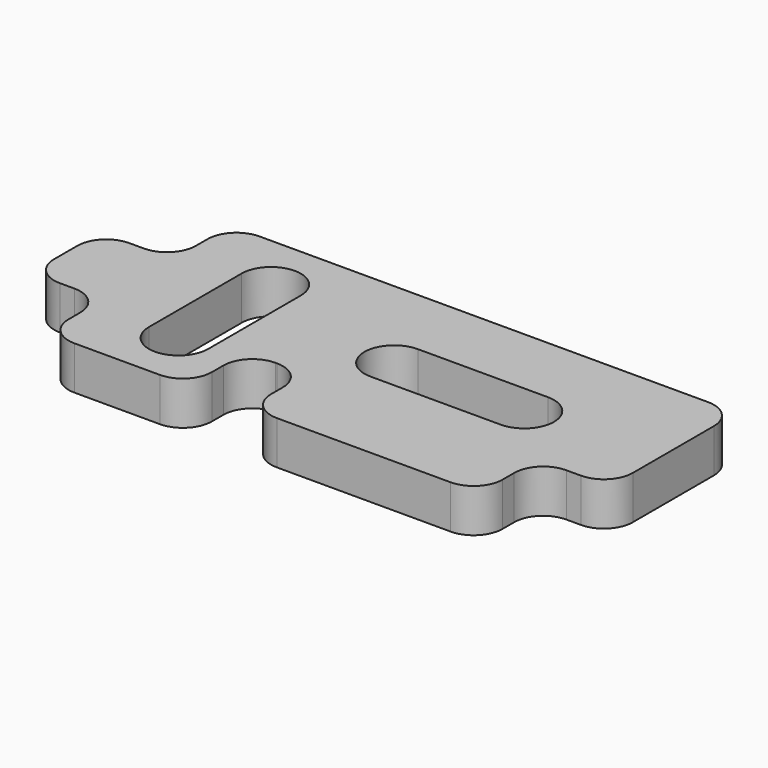
from build123d import *

# Parameters (mm, degrees)
PAD_DEPTH = 3


with BuildPart() as part:
    # Sketch → Pad (new body)
    with BuildSketch(Plane.XY):
        with BuildLine():
            Line((7, 0), (12.9, 0))
            ThreePointArc((12.9, 0), (14.314214, 0.585786), (14.9, 2))
            Line((14.9, 2), (14.9, 3))
            ThreePointArc((16.9, 5), (15.485786, 4.414214), (14.9, 3))
            Line((16.9, 5), (17, 5))
            ThreePointArc((19, 3), (18.414214, 4.414214), (17, 5))
            Line((19, 3), (19, 2))
            ThreePointArc((19, 2), (19.585786, 0.585786), (21, 0))
            Line((21, 0), (33, 0))
            ThreePointArc((33, 0), (34.414214, 0.585786), (35, 2))
            Line((35, 2), (35, 3))
            ThreePointArc((37, 5), (35.585786, 4.414214), (35, 3))
            Line((37, 5), (38, 5))
            ThreePointArc((38, 5), (39.414214, 5.585786), (40, 7))
            Line((40, 7), (40, 14))
            ThreePointArc((40, 14), (39.414214, 15.414214), (38, 16))
            Line((38, 16), (7, 16))
            ThreePointArc((7, 16), (5.585786, 15.414214), (5, 14))
            Line((5, 14), (5, 13))
            ThreePointArc((3, 11), (4.414214, 11.585786), (5, 13))
            Line((3, 11), (2, 11))
            ThreePointArc((2, 11), (0.585786, 10.414214), (0, 9))
            Line((0, 9), (0, 7))
            ThreePointArc((0, 7), (0.585786, 5.585786), (2, 5))
            Line((3, 5), (2, 5))
            ThreePointArc((5, 3), (4.414214, 4.414214), (3, 5))
            Line((5, 2), (5, 3))
            ThreePointArc((5, 2), (5.585786, 0.585786), (7, 0))
        make_face()
        with BuildLine():
            ThreePointArc((21.9, 11.05), (19.85, 9), (21.9, 6.95))
            Line((21.9, 6.95), (30.9, 6.95))
            ThreePointArc((30.9, 6.95), (32.95, 9), (30.9, 11.05))
            Line((21.9, 11.05), (30.9, 11.05))
        make_face(mode=Mode.SUBTRACT)
        with BuildLine():
            ThreePointArc((13.05, 12), (11, 14.05), (8.95, 12))
            Line((8.95, 12), (8.95, 4))
            ThreePointArc((8.95, 4), (11, 1.95), (13.05, 4))
            Line((13.05, 12), (13.05, 4))
        make_face(mode=Mode.SUBTRACT)
    extrude(amount=PAD_DEPTH)


solid = part.part
